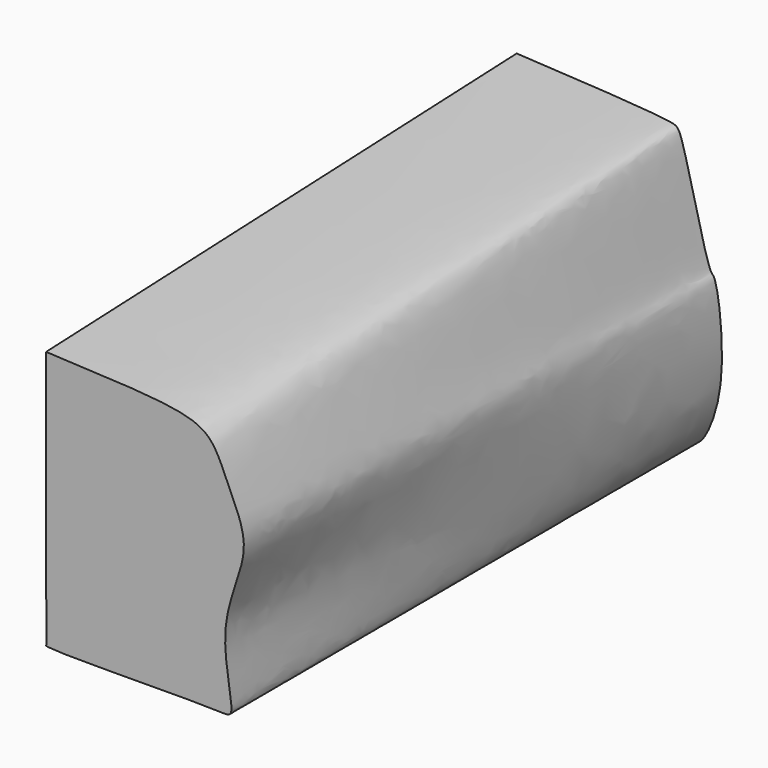
from build123d import *


with BuildPart() as f3:
    # F2 (on offset) → F3 section 0
    with BuildSketch(Plane.XZ.offset(127)):
        with BuildLine():
            add(Edge.make_bspline(
                [(0, 59.7469285131), (13.776733391, 59.0289244668), (30.71363771, 58.874311886), (36.7314751128, 53.8310430822), (39.7103375064, 45.9607331454), (45.0118465274, 35.6905668481), (36.0713973489, 20.7278362032), (41.4600116316, 2.8879798209), (36.219150842, 4.0745441274), (-0.585187595, 3.0993516166), (0, 3.9925151505), (0.0372463065, 4.0463752858)],
                knots=[0, 0, 0, 0, 0.1828568843, 0.2646105456, 0.3571669392, 0.4628682711, 0.5982674885, 0.7252596938, 0.7911710833, 0.9869797597, 1, 1, 1, 1], degree=3))
            Line((0, 59.7469285131), (0.0372463065, 4.0463752858))
        make_face()
    # F0 (on Front) → F3 section 1
    with BuildSketch(Plane.XZ):
        with BuildLine():
            add(Edge.make_bspline(
                [(0, 64.8384466767), (14.4698766117, 64.084317983), (33.3201715674, 63.1018943803), (35.8900881666, 61.5514363196), (41.2520812022, 36.2697304251), (43.2175909516, 36.8313406408), (45.9706151743, 16.19776792), (40.1322921997, 3.3046398595), (36.999273732, 3.7083661425), (-0.6468864401, 3.0570833487), (-0.0380514844, 3.9374907035), (0, 3.9925151505)],
                knots=[0, 0, 0, 0, 0.1920568888, 0.2501976416, 0.4138574892, 0.4528710414, 0.5993918055, 0.7200048131, 0.7871687083, 0.9866982891, 1, 1, 1, 1], degree=3))
            Line((0, 64.8384466767), (0, 3.9925151505))
        make_face()
    loft()


solid = f3.part
